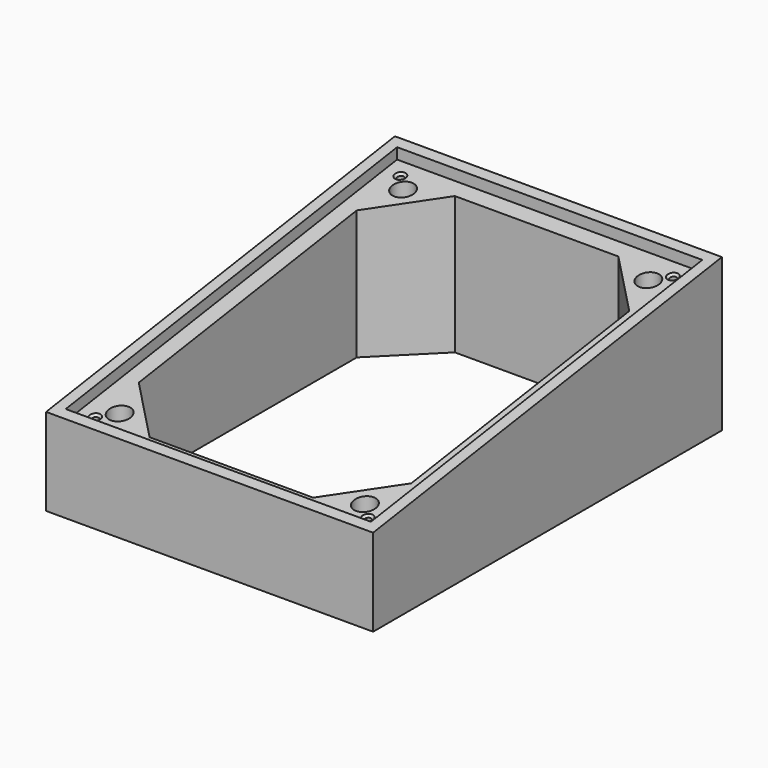
from build123d import *

# Parameters (mm, degrees)
F0_W           = 150
F0_H           = 200
F0_W_2         = 137.5
F0_H_2         = 187.5
F0_R           = 5
F1_DEPTH       = 70
F3_DEPTH       = 155
F5_START       = -5
F5_DEPTH       = 140
F0_R_2         = 2.5
F6_DEPTH       = 5
F8_D           = 3
F8_CSINK_D     = 5
F8_CSINK_ANGLE = 90


with BuildPart() as f1:
    # F0 (on Top) → F1 (new body)
    with BuildSketch(Plane.XY):
        with Locations((0.0049619689, -0.0823242008)):
            Rectangle(F0_W, F0_H)
        with Locations((0.0049619689, -0.0823242008)):
            Rectangle(F0_W_2, F0_H_2, mode=Mode.SUBTRACT)
        with Locations((0.0049619689, -0.0823242008)):
            Rectangle(F0_W_2, F0_H_2)
        Polygon((-62.4950380311, 62.4176757992), (-62.4950380311, 87.4176757992), (-37.4950380311, 87.4176757992), (37.5049619689, 87.4176757992), (62.5049619689, 87.4176757992), (62.5049619689, 62.4176757992), (62.5049619689, -62.5823242008), (62.5049619689, -87.5823242008), (37.5049619689, -87.5823242008), (-37.4950380311, -87.5823242008), (-62.4950380311, -87.5823242008), (-62.4950380311, -62.5823242008), align=None, mode=Mode.SUBTRACT)
        Polygon((-37.4950380311, 87.4176757992), (-62.4950380311, 87.4176757992), (-62.4950380311, 62.4176757992), align=None)
        with Locations((-56.2450380311, 81.1676757992)):
            Circle(F0_R, mode=Mode.SUBTRACT)
        Polygon((62.5049619689, 87.4176757992), (37.5049619689, 87.4176757992), (62.5049619689, 62.4176757992), align=None)
        with Locations((56.2549619689, 81.1676757992)):
            Circle(F0_R, mode=Mode.SUBTRACT)
        Polygon((62.5049619689, -87.5823242008), (62.5049619689, -62.5823242008), (37.5049619689, -87.5823242008), align=None)
        with Locations((56.2549619689, -81.3323242008)):
            Circle(F0_R, mode=Mode.SUBTRACT)
        Polygon((-37.4950380311, -87.5823242008), (-62.4950380311, -62.5823242008), (-62.4950380311, -87.5823242008), align=None)
        with Locations((-56.2450380311, -81.3323242008)):
            Circle(F0_R, mode=Mode.SUBTRACT)
    extrude(amount=F1_DEPTH)

    # F2 (on face) → F3 (cut)
    with BuildSketch(Plane.YZ.offset(75.0049619689)):
        Polygon((-100.0823242008, 70), (-100.0823242008, 40), (99.9176757992, 70), align=None)
    extrude(amount=-F3_DEPTH, mode=Mode.SUBTRACT)

    # F4 (on face) → F5 (cut)
    with BuildSketch(Plane.YZ.offset(75.0049619689).offset(F5_START)):
        Polygon((94.9176757992, 69.25), (-95.0823242008, 40.75), (-95.0823242008, 35.75), (94.9176757992, 64.25), align=None)
    extrude(amount=-F5_DEPTH, mode=Mode.SUBTRACT)

    # F0 (on Top) → F6 (join)
    with BuildSketch(Plane.XY):
        with Locations((-56.2450380311, 81.1676757992)):
            Circle(F0_R)
        with Locations((-56.2450380311, 81.1676757992)):
            Circle(F0_R_2, mode=Mode.SUBTRACT)
        with Locations((56.2549619689, 81.1676757992)):
            Circle(F0_R)
        with Locations((56.2549619689, 81.1676757992)):
            Circle(F0_R_2, mode=Mode.SUBTRACT)
        with Locations((-56.2450380311, -81.3323242008)):
            Circle(F0_R)
        with Locations((-56.2450380311, -81.3323242008)):
            Circle(F0_R_2, mode=Mode.SUBTRACT)
        with Locations((56.2549619689, -81.3323242008)):
            Circle(F0_R)
        with Locations((56.2549619689, -81.3323242008)):
            Circle(F0_R_2, mode=Mode.SUBTRACT)
    extrude(amount=F6_DEPTH)

    # F8 (through all)
    with Locations(Plane(origin=(0, -7.3367748602, 48.9118324011), x_dir=(1, 0, 0), z_dir=(0, -0.1483404529, 0.9889363529))):
        with Locations((-62.4950380311, 95.8145085723), (62.5049619689, 95.8145085723), (62.5049619689, -81.143290069), (-62.4950380311, -81.143290069)):
            CounterSinkHole(F8_D / 2, F8_CSINK_D / 2, counter_sink_angle=F8_CSINK_ANGLE)


solid = f1.part
